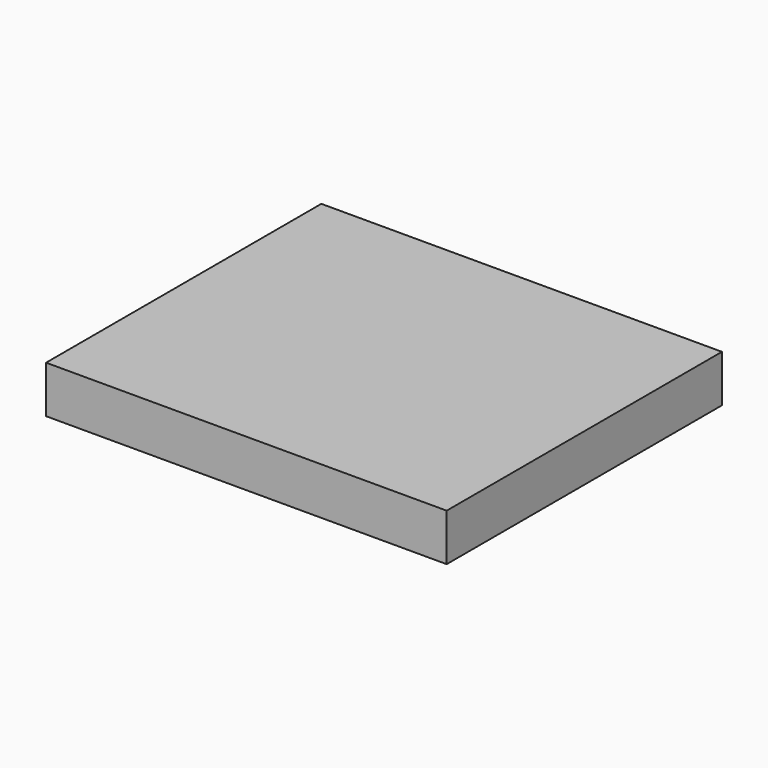
from build123d import *

# Parameters (mm, degrees)
BOX011_W     = 120
BOX011_H     = 2
BOX011_DEPTH = 16
BOX010_W     = 100
BOX010_H     = 120
BOX010_DEPTH = 16
BOX_W        = 170
BOX_H        = 146
BOX_DEPTH    = 20


with BuildPart() as cube002:
    # Box011 → Box011 (new body)
    with BuildSketch(Plane(origin=(15, 118, -17), x_dir=(1, 0, 0), z_dir=(0, 0, 1))):
        with Locations((60, 1)):
            Rectangle(BOX011_W, BOX011_H)
    extrude(amount=BOX011_DEPTH)


with BuildPart() as cube001:
    # Box010 → Box010 (new body)
    with BuildSketch(Plane(origin=(25, 0, -17), x_dir=(1, 0, 0), z_dir=(0, 0, 1))):
        with Locations((50, 60)):
            Rectangle(BOX010_W, BOX010_H)
    extrude(amount=BOX010_DEPTH)


with BuildPart() as cut004005:
    # Box → Box (new body)
    with BuildSketch(Plane(origin=(-10, -26, -20), x_dir=(1, 0, 0), z_dir=(0, 0, 1))):
        with Locations((85, 73)):
            Rectangle(BOX_W, BOX_H)
    extrude(amount=BOX_DEPTH)

    # Cut004004: cut Cube001
    add(cube001.part, mode=Mode.SUBTRACT)

    # Cut004005: cut Cube002
    add(cube002.part, mode=Mode.SUBTRACT)


solid = cut004005.part
